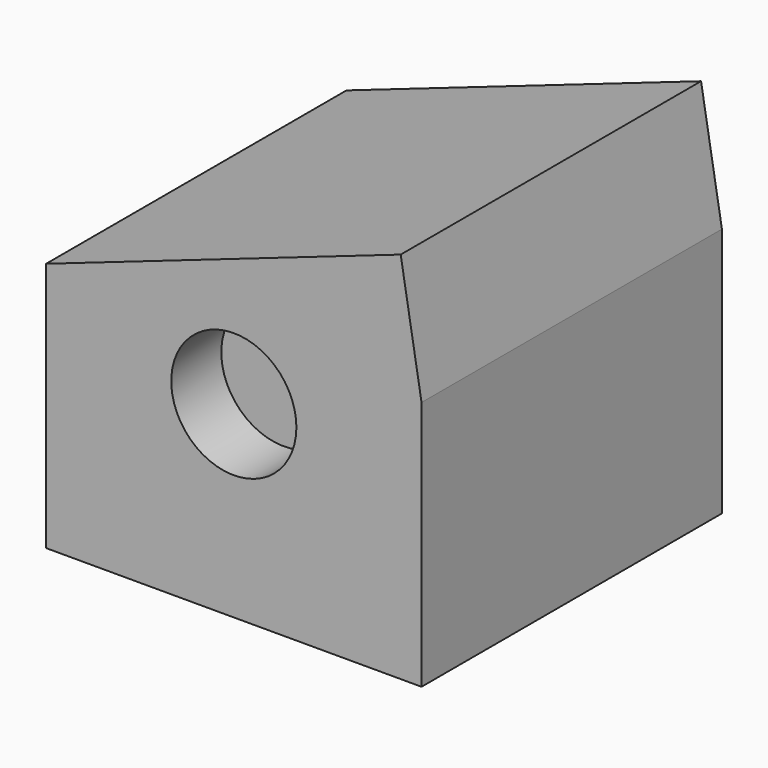
from build123d import *

# Parameters (mm, degrees)
F0_W     = 76.2
F0_H     = 50.8
F1_DEPTH = 76.2
F2_R     = 12.7
F3_DEPTH = 12.7


with BuildPart() as f1:
    # F0 (on Front) → F1 (new body)
    with BuildSketch(Plane.XZ):
        with Locations((38.1, 25.4)):
            Rectangle(F0_W, F0_H)
        Polygon((71.966667, 75.844738), (0, 50.8), (76.2, 50.8), align=None)
    extrude(amount=F1_DEPTH)

    # F2 (on face) → F3 (cut)
    with BuildSketch(Plane.XZ.offset(76.2)):
        with Locations((38.1, 38.1)):
            Circle(F2_R)
    extrude(amount=-F3_DEPTH, mode=Mode.SUBTRACT)


solid = f1.part
